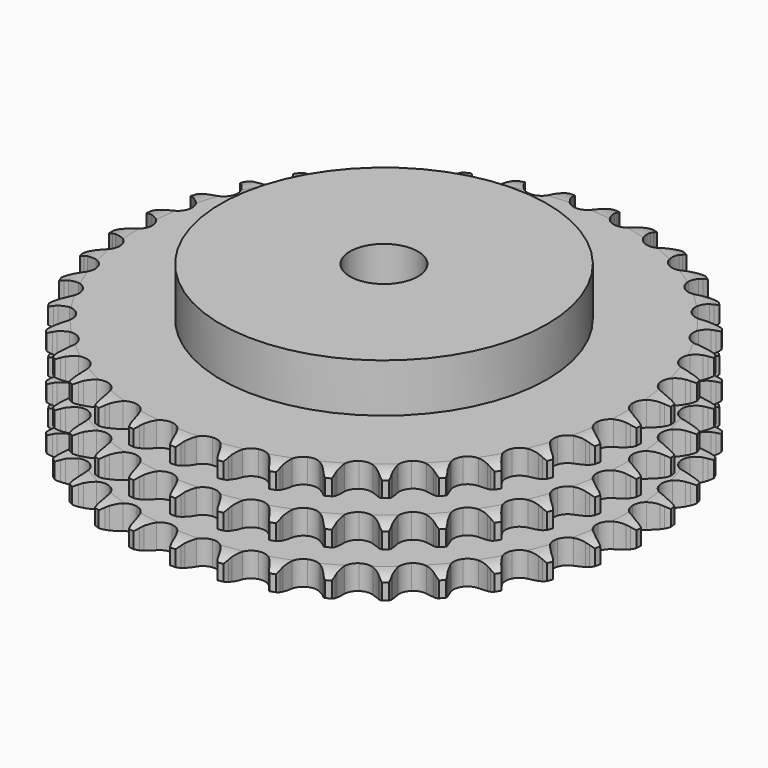
from build123d import *

# Parameters (mm, degrees)
PAD_DEPTH         = 42.1
SKETCH001_R       = 60
PAD001_DEPTH      = 60
SKETCH002_R       = 12.5
POCKET_DEPTH      = 0.001
POCKET_DEPTH_BACK = 60.001


with BuildPart() as part:
    # Sprocket → Pad (new body)
    with BuildSketch(Plane.XY):
        with BuildLine():
            ThreePointArc((-8.361214, 98.237154), (-7.231776, 96.838218), (-6.432471, 95.227702))
            Line((-6.432471, 95.227702), (-5.936919, 93.876112))
            ThreePointArc((-5.936919, 93.876112), (-5.153166, 92.136792), (-4.128134, 90.527815))
            ThreePointArc((-4.128134, 90.527815), (-2.310205, 89.000564), (0, 88.452555))
            ThreePointArc((0, 88.452555), (2.310205, 89.000564), (4.128134, 90.527815))
            ThreePointArc((4.128134, 90.527815), (5.153166, 92.136792), (5.936919, 93.876112))
            Line((5.936919, 93.876112), (6.432471, 95.227702))
            ThreePointArc((6.432471, 95.227702), (7.231776, 96.838218), (8.361214, 98.237154))
            ThreePointArc((8.361214, 98.237154), (9.237985, 96.667465), (9.753614, 94.945031))
            Line((9.753614, 94.945031), (10.013618, 93.529133))
            ThreePointArc((10.013618, 93.529133), (10.492151, 91.682378), (11.23052, 89.923312))
            ThreePointArc((11.23052, 89.923312), (12.764193, 88.110798), (14.948554, 87.180246))
            ThreePointArc((14.948554, 87.180246), (17.318143, 87.329945), (19.36803, 88.527996))
            Line((19.36803, 88.527996), (21.716662, 91.522445))
            ThreePointArc((21.716662, 91.522445), (22.058144, 92.156372), (22.433505, 92.770845))
            ThreePointArc((22.433505, 92.770845), (23.493492, 94.223112), (24.843105, 95.41105))
            ThreePointArc((24.843105, 95.41105), (25.441986, 93.715764), (25.659105, 91.930964))
            Line((25.659105, 91.930964), (25.676082, 90.491492))
            ThreePointArc((25.676082, 90.491492), (25.835628, 88.590428), (26.266093, 86.73188))
            ThreePointArc((26.266093, 86.73188), (27.471389, 84.686245), (29.467066, 83.399919))
            ThreePointArc((29.467066, 83.399919), (31.82787, 83.147003), (34.050742, 83.981389))
            Line((34.050742, 83.981389), (36.871656, 86.535844))
            ThreePointArc((36.871656, 86.535844), (37.31536, 87.102942), (37.789169, 87.64514))
            ThreePointArc((37.789169, 87.64514), (39.079343, 88.897379), (40.610305, 89.840143))
            ThreePointArc((40.610305, 89.840143), (40.914067, 88.068032), (40.826431, 86.272211))
            Line((40.826431, 86.272211), (40.599891, 84.850576))
            ThreePointArc((40.599891, 84.850576), (40.435861, 82.949893), (40.546038, 81.04533))
            ThreePointArc((40.546038, 81.04533), (41.388283, 78.825424), (43.137864, 77.220329))
            ThreePointArc((43.137864, 77.220329), (45.421967, 76.572073), (47.753877, 77.01879))
            Line((47.753877, 77.01879), (50.965919, 79.059765))
            ThreePointArc((50.965919, 79.059765), (51.499081, 79.543719), (52.057707, 79.998044))
            ThreePointArc((52.057707, 79.998044), (53.540952, 81.014231), (55.209221, 81.6847))
            ThreePointArc((55.209221, 81.6847), (55.209125, 79.886742), (54.819254, 78.131564))
            Line((54.819254, 78.131564), (54.355715, 76.768663))
            ThreePointArc((54.355715, 76.768663), (53.872828, 74.923041), (53.659548, 73.027253))
            ThreePointArc((53.659548, 73.027253), (54.114512, 70.696938), (55.567664, 68.819251))
            ThreePointArc((55.567664, 68.819251), (57.709356, 67.794304), (60.083219, 67.8405))
            Line((60.083219, 67.8405), (63.593986, 69.30928))
            ThreePointArc((63.593986, 69.30928), (64.201268, 69.696168), (64.828639, 70.04955))
            ThreePointArc((64.828639, 70.04955), (66.462285, 70.80045), (68.219868, 71.179336))
            ThreePointArc((68.219868, 71.179336), (67.915917, 69.407257), (67.235028, 67.743213))
            Line((67.235028, 67.743213), (66.547825, 66.478255))
            ThreePointArc((66.547825, 66.478255), (65.759972, 64.740789), (65.229369, 62.908315))
            ThreePointArc((65.229369, 62.908315), (65.283964, 60.53463), (66.398884, 58.438368))
            ThreePointArc((66.398884, 58.438368), (68.336552, 57.066216), (70.684077, 56.710563))
            Line((70.684077, 56.710563), (74.392569, 57.564893))
            ThreePointArc((74.392569, 57.564893), (75.056501, 57.843585), (75.73457, 58.085858))
            ThreePointArc((75.73457, 58.085858), (77.47162, 58.549869), (79.267953, 58.626272))
            ThreePointArc((79.267953, 58.626272), (78.668892, 56.931051), (77.716572, 55.406014))
            Line((77.716572, 55.406014), (76.825475, 54.275389))
            ThreePointArc((76.825475, 54.275389), (75.755321, 52.696062), (74.922661, 50.979619))
            ThreePointArc((74.922661, 50.979619), (74.575316, 48.630851), (75.319928, 46.376319))
            ThreePointArc((75.319928, 46.376319), (76.997831, 44.696437), (79.251483, 43.949166))
            Line((79.251483, 43.949166), (83.051014, 44.16447))
            ThreePointArc((83.051014, 44.16447), (83.752495, 44.326948), (84.461754, 44.451141))
            ThreePointArc((84.461754, 44.451141), (86.252237, 44.614915), (88.035644, 44.386638))
            ThreePointArc((88.035644, 44.386638), (87.158706, 42.817042), (85.962351, 41.474885))
            Line((85.962351, 41.474885), (84.892995, 40.511118))
            ThreePointArc((84.892995, 40.511118), (83.571327, 39.135366), (82.460564, 37.584332))
            ThreePointArc((82.460564, 37.584332), (81.721271, 35.328051), (82.074156, 32.980108))
            ThreePointArc((82.074156, 32.980108), (83.444021, 31.040823), (85.538967, 29.923432))
            Line((85.538967, 29.923432), (89.320233, 29.493514))
            ThreePointArc((89.320233, 29.493514), (90.039082, 29.535105), (90.759128, 29.537646))
            ThreePointArc((90.759128, 29.537646), (92.551535, 29.396471), (94.27071, 28.87008))
            ThreePointArc((94.27071, 28.87008), (93.141122, 27.471266), (91.735151, 26.350598))
            Line((91.735151, 26.350598), (90.518299, 25.581417))
            ThreePointArc((90.518299, 25.581417), (88.983139, 24.448817), (87.626227, 23.107813))
            ThreePointArc((87.626227, 23.107813), (86.516255, 21.008927), (86.467259, 18.63512))
            ThreePointArc((86.467259, 18.63512), (87.48968, 16.492221), (89.365652, 15.036855))
            Line((89.365652, 15.036855), (93.019871, 13.974084))
            ThreePointArc((93.019871, 13.974084), (93.735408, 13.89359), (94.445527, 13.774407))
            ThreePointArc((94.445527, 13.774407), (96.188293, 13.332345), (97.793779, 12.522983))
            ThreePointArc((97.793779, 12.522983), (96.444038, 11.33519), (94.868897, 10.468253))
            Line((94.868897, 10.468253), (93.539556, 9.915785))
            ThreePointArc((93.539556, 9.915785), (91.835068, 9.058919), (90.271043, 7.966524))
            ThreePointArc((90.271043, 7.966524), (88.822323, 6.085415), (88.372857, 3.754033))
            ThreePointArc((88.372857, 3.754033), (89.018419, 1.469167), (90.621449, -0.282305))
            Line((90.621449, -0.282305), (94.043496, -1.947354))
            ThreePointArc((94.043496, -1.947354), (94.735138, -2.147617), (95.4149, -2.385097))
            ThreePointArc((95.4149, -2.385097), (97.057889, -3.115329), (98.503499, -4.184377))
            ThreePointArc((98.503499, -4.184377), (96.972435, -5.126978), (95.273438, -5.715244))
            Line((95.273438, -5.715244), (93.869851, -6.035107))
            ThreePointArc((93.869851, -6.035107), (92.045068, -6.591587), (90.318925, -7.403948))
            ThreePointArc((90.318925, -7.403948), (88.573135, -9.013164), (87.736128, -11.235051))
            ThreePointArc((87.736128, -11.235051), (87.986261, -13.596151), (89.270232, -15.593344))
            Line((89.270232, -15.593344), (92.361662, -17.812772))
            ThreePointArc((92.361662, -17.812772), (93.00951, -18.127042), (93.639361, -18.475986))
            ThreePointArc((93.639361, -18.475986), (95.135306, -19.473381), (96.379452, -20.771361))
            ThreePointArc((96.379452, -20.771361), (94.711112, -21.441652), (92.937135, -21.734325))
            Line((92.937135, -21.734325), (91.49968, -21.812379))
            ThreePointArc((91.49968, -21.812379), (89.6071, -22.052465), (87.768497, -22.561421))
            ThreePointArc((87.768497, -22.561421), (85.775859, -23.85245), (84.575391, -25.900922))
            ThreePointArc((84.575391, -25.900922), (84.422898, -28.270333), (85.350873, -30.45579))
            Line((85.350873, -30.45579), (88.02275, -33.165748))
            ThreePointArc((88.02275, -33.165748), (88.608168, -33.584984), (89.169987, -34.035354))
            ThreePointArc((89.169987, -34.035354), (90.475854, -35.271219), (91.482745, -36.76079))
            ThreePointArc((91.482745, -36.76079), (89.725122, -37.139489), (87.9272, -37.128149))
            Line((87.9272, -37.128149), (86.497231, -36.962149))
            ThreePointArc((86.497231, -36.962149), (84.591299, -36.878934), (82.693128, -37.069843))
            ThreePointArc((82.693128, -37.069843), (80.510968, -38.005545), (78.981574, -39.821672))
            ThreePointArc((78.981574, -39.821672), (78.430842, -42.131229), (78.976125, -44.442079))
            Line((78.976125, -44.442079), (81.151584, -47.564606))
            ThreePointArc((81.151584, -47.564606), (81.65773, -48.076748), (82.135355, -48.615588))
            ThreePointArc((82.135355, -48.615588), (83.213576, -50.054368), (83.954245, -51.692679))
            ThreePointArc((83.954245, -51.692679), (82.157903, -51.76889), (80.38776, -51.453863))
            Line((80.38776, -51.453863), (79.006413, -51.048585))
            ThreePointArc((79.006413, -51.048585), (77.14196, -50.644463), (75.238829, -50.511834))
            ThreePointArc((75.238829, -50.511834), (72.929922, -51.065289), (71.115601, -52.596824))
            ThreePointArc((71.115601, -52.596824), (70.182473, -54.780086), (70.329378, -57.14985))
            Line((70.329378, -57.14985), (71.945835, -60.595116))
            ThreePointArc((71.945835, -60.595116), (72.358148, -61.185431), (72.737839, -61.797239))
            ThreePointArc((72.737839, -61.797239), (73.557396, -63.397544), (74.010534, -65.137463))
            ThreePointArc((74.010534, -65.137463), (72.227152, -64.908995), (70.53571, -64.299343))
            Line((70.53571, -64.299343), (69.242725, -63.666446))
            ThreePointArc((69.242725, -63.666446), (67.473388, -62.953043), (65.620045, -62.500691))
            ThreePointArc((65.620045, -62.500691), (63.250816, -62.655978), (61.203761, -63.858861))
            ThreePointArc((61.203761, -63.858861), (59.915083, -65.85302), (59.659382, -68.213524))
            Line((59.659382, -68.213524), (60.670336, -71.882416))
            ThreePointArc((60.670336, -71.882416), (60.976954, -72.533921), (61.247787, -73.201096))
            ThreePointArc((61.247787, -73.201096), (61.785102, -74.916889), (61.937676, -76.708361))
            ThreePointArc((61.937676, -76.708361), (60.218557, -76.181786), (58.654476, -75.295049))
            Line((58.654476, -75.295049), (57.48705, -74.452739))
            ThreePointArc((57.48705, -74.452739), (55.863728, -73.450579), (54.113493, -72.691517))
            ThreePointArc((54.113493, -72.691517), (51.752099, -72.444169), (49.531201, -73.283796))
            ThreePointArc((49.531201, -73.283796), (47.924044, -75.031482), (47.273095, -77.314819))
            Line((47.273095, -77.314819), (47.649461, -81.101789))
            ThreePointArc((47.649461, -81.101789), (47.841564, -81.795742), (47.995748, -82.499092))
            ThreePointArc((47.995748, -82.499092), (48.235364, -84.28101), (48.082983, -86.072499))
            ThreePointArc((48.082983, -86.072499), (46.477583, -85.262966), (45.08586, -84.124652))
            Line((45.08586, -84.124652), (44.077577, -83.097163))
            ThreePointArc((44.077577, -83.097163), (42.646972, -81.835075), (41.050193, -80.79114))
            ThreePointArc((41.050193, -80.79114), (38.764568, -80.148273), (36.433718, -80.600488))
            ThreePointArc((36.433718, -80.600488), (34.554318, -82.051426), (33.526846, -84.191907))
            Line((33.526846, -84.191907), (33.257798, -87.988012))
            ThreePointArc((33.257798, -87.988012), (33.329859, -88.704448), (33.362959, -89.423738))
            ThreePointArc((33.362959, -89.423738), (33.297983, -91.220521), (32.84503, -92.960488))
            ThreePointArc((32.84503, -92.960488), (31.399534, -91.891285), (30.220206, -90.534143))
            Line((30.220206, -90.534143), (29.400073, -89.351033))
            ThreePointArc((29.400073, -89.351033), (28.203339, -87.865325), (26.805955, -86.56655))
            ThreePointArc((26.805955, -86.56655), (24.661851, -85.546657), (22.288103, -85.598452))
            ThreePointArc((22.288103, -85.598452), (20.190528, -86.710899), (18.816092, -88.646948))
            Line((18.816092, -88.646948), (17.909369, -92.34298))
            ThreePointArc((17.909369, -92.34298), (17.859315, -93.061289), (17.770378, -93.775826))
            ThreePointArc((17.770378, -93.775826), (17.402679, -95.535783), (16.662185, -97.174173))
            ThreePointArc((16.662185, -97.174173), (15.418178, -95.87606), (14.485171, -94.339132))
            Line((14.485171, -94.339132), (13.876782, -93.034436))
            ThreePointArc((13.876782, -93.034436), (12.948348, -91.36785), (11.790557, -89.851597))
            ThreePointArc((11.790557, -89.851597), (9.849658, -88.484019), (7.501301, -88.133904))
            ThreePointArc((7.501301, -88.133904), (5.245892, -88.875857), (3.564033, -90.551777))
            Line((3.564033, -90.551777), (2.045719, -94.041408))
            ThreePointArc((2.045719, -94.041408), (1.874991, -94.740926), (1.666576, -95.430155))
            ThreePointArc((1.666576, -95.430155), (1.006731, -97.102655), (0, -98.592334))
            ThreePointArc((0, -98.592334), (-1.006731, -97.102655), (-1.666576, -95.430155))
            Line((-1.666576, -95.430155), (-2.045719, -94.041408))
            ThreePointArc((-2.045719, -94.041408), (-2.679144, -92.241888), (-3.564033, -90.551777))
            ThreePointArc((-3.564033, -90.551777), (-5.245892, -88.875857), (-7.501301, -88.133904))
            ThreePointArc((-7.501301, -88.133904), (-9.849658, -88.484019), (-11.790557, -89.851597))
            Line((-11.790557, -89.851597), (-13.876782, -93.034436))
            ThreePointArc((-13.876782, -93.034436), (-14.163273, -93.695039), (-14.485171, -94.339132))
            ThreePointArc((-14.485171, -94.339132), (-15.418178, -95.87606), (-16.662185, -97.174173))
            ThreePointArc((-16.662185, -97.174173), (-17.402679, -95.535783), (-17.770378, -93.775826))
            Line((-17.770378, -93.775826), (-17.909369, -92.34298))
            ThreePointArc((-17.909369, -92.34298), (-18.229562, -90.462294), (-18.816092, -88.646948))
            ThreePointArc((-18.816092, -88.646948), (-20.190528, -86.710899), (-22.288103, -85.598452))
            ThreePointArc((-22.288103, -85.598452), (-24.661851, -85.546657), (-26.805955, -86.56655))
            Line((-26.805955, -86.56655), (-29.400073, -89.351033))
            ThreePointArc((-29.400073, -89.351033), (-29.794086, -89.953716), (-30.220206, -90.534143))
            ThreePointArc((-30.220206, -90.534143), (-31.399534, -91.891285), (-32.84503, -92.960488))
            ThreePointArc((-32.84503, -92.960488), (-33.297983, -91.220521), (-33.362959, -89.423738))
            Line((-33.362959, -89.423738), (-33.257798, -87.988012))
            ThreePointArc((-33.257798, -87.988012), (-33.255548, -86.080266), (-33.526846, -84.191907))
            ThreePointArc((-33.526846, -84.191907), (-34.554318, -82.051426), (-36.433718, -80.600488))
            ThreePointArc((-36.433718, -80.600488), (-38.764568, -80.148273), (-41.050193, -80.79114))
            Line((-41.050193, -80.79114), (-44.077577, -83.097163))
            ThreePointArc((-44.077577, -83.097163), (-44.567777, -83.624589), (-45.08586, -84.124652))
            ThreePointArc((-45.08586, -84.124652), (-46.477583, -85.262966), (-48.082983, -86.072499))
            ThreePointArc((-48.082983, -86.072499), (-48.235364, -84.28101), (-47.995748, -82.499092))
            Line((-47.995748, -82.499092), (-47.649461, -81.101789))
            ThreePointArc((-47.649461, -81.101789), (-47.324833, -79.221865), (-47.273095, -77.314819))
            ThreePointArc((-47.273095, -77.314819), (-47.924044, -75.031482), (-49.531201, -73.283796))
            ThreePointArc((-49.531201, -73.283796), (-51.752099, -72.444169), (-54.113493, -72.691517))
            Line((-54.113493, -72.691517), (-57.48705, -74.452739))
            ThreePointArc((-57.48705, -74.452739), (-58.059334, -74.889735), (-58.654476, -75.295049))
            ThreePointArc((-58.654476, -75.295049), (-60.218557, -76.181786), (-61.937676, -76.708361))
            ThreePointArc((-61.937676, -76.708361), (-61.785102, -74.916889), (-61.247787, -73.201096))
            Line((-61.247787, -73.201096), (-60.670336, -71.882416))
            ThreePointArc((-60.670336, -71.882416), (-60.032668, -70.084395), (-59.659382, -68.213524))
            ThreePointArc((-59.659382, -68.213524), (-59.915083, -65.85302), (-61.203761, -63.858861))
            ThreePointArc((-61.203761, -63.858861), (-63.250816, -62.655978), (-65.620045, -62.500691))
            Line((-65.620045, -62.500691), (-69.242725, -63.666446))
            ThreePointArc((-69.242725, -63.666446), (-69.88063, -64.000439), (-70.53571, -64.299343))
            ThreePointArc((-70.53571, -64.299343), (-72.227152, -64.908995), (-74.010534, -65.137463))
            ThreePointArc((-74.010534, -65.137463), (-73.557396, -63.397544), (-72.737839, -61.797239))
            Line((-72.737839, -61.797239), (-71.945835, -60.595116))
            ThreePointArc((-71.945835, -60.595116), (-71.013473, -58.930724), (-70.329378, -57.14985))
            ThreePointArc((-70.329378, -57.14985), (-70.182473, -54.780086), (-71.115601, -52.596824))
            ThreePointArc((-71.115601, -52.596824), (-72.929922, -51.065289), (-75.238829, -50.511834))
            Line((-75.238829, -50.511834), (-79.006413, -51.048585))
            ThreePointArc((-79.006413, -51.048585), (-79.691587, -51.269967), (-80.38776, -51.453863))
            ThreePointArc((-80.38776, -51.453863), (-82.157903, -51.76889), (-83.954245, -51.692679))
            ThreePointArc((-83.954245, -51.692679), (-83.213576, -50.054368), (-82.135355, -48.615588))
            Line((-82.135355, -48.615588), (-81.151584, -47.564606))
            ThreePointArc((-81.151584, -47.564606), (-79.95135, -46.081724), (-78.976125, -44.442079))
            ThreePointArc((-78.976125, -44.442079), (-78.430842, -42.131229), (-78.981574, -39.821672))
            ThreePointArc((-78.981574, -39.821672), (-80.510968, -38.005545), (-82.693128, -37.069843))
            Line((-82.693128, -37.069843), (-86.497231, -36.962149))
            ThreePointArc((-86.497231, -36.962149), (-87.209963, -37.064552), (-87.9272, -37.128149))
            ThreePointArc((-87.9272, -37.128149), (-89.725122, -37.139489), (-91.482745, -36.76079))
            ThreePointArc((-91.482745, -36.76079), (-90.475854, -35.271219), (-89.169987, -34.035354))
            Line((-89.169987, -34.035354), (-88.02275, -33.165748))
            ThreePointArc((-88.02275, -33.165748), (-86.589172, -31.907037), (-85.350873, -30.45579))
            ThreePointArc((-85.350873, -30.45579), (-84.422898, -28.270333), (-84.575391, -25.900922))
            ThreePointArc((-84.575391, -25.900922), (-85.775859, -23.85245), (-87.768497, -22.561421))
            Line((-87.768497, -22.561421), (-91.49968, -21.812379))
            ThreePointArc((-91.49968, -21.812379), (-92.219467, -21.792856), (-92.937135, -21.734325))
            ThreePointArc((-92.937135, -21.734325), (-94.711112, -21.441652), (-96.379452, -20.771361))
            ThreePointArc((-96.379452, -20.771361), (-95.135306, -19.473381), (-93.639361, -18.475986))
            Line((-93.639361, -18.475986), (-92.361662, -17.812772))
            ThreePointArc((-92.361662, -17.812772), (-90.735981, -16.814442), (-89.270232, -15.593344))
            ThreePointArc((-89.270232, -15.593344), (-87.986261, -13.596151), (-87.736128, -11.235051))
            ThreePointArc((-87.736128, -11.235051), (-88.573135, -9.013164), (-90.318925, -7.403948))
            Line((-90.318925, -7.403948), (-93.869851, -6.035107))
            ThreePointArc((-93.869851, -6.035107), (-94.575984, -5.894221), (-95.273438, -5.715244))
            ThreePointArc((-95.273438, -5.715244), (-96.972435, -5.126978), (-98.503499, -4.184377))
            ThreePointArc((-98.503499, -4.184377), (-97.057889, -3.115329), (-95.4149, -2.385097))
            Line((-95.4149, -2.385097), (-94.043496, -1.947354))
            ThreePointArc((-94.043496, -1.947354), (-92.272481, -1.238127), (-90.621449, -0.282305))
            ThreePointArc((-90.621449, -0.282305), (-89.018419, 1.469167), (-88.372857, 3.754033))
            ThreePointArc((-88.372857, 3.754033), (-88.822323, 6.085415), (-90.271043, 7.966524))
            Line((-90.271043, 7.966524), (-93.539556, 9.915785))
            ThreePointArc((-93.539556, 9.915785), (-94.211723, 10.173981), (-94.868897, 10.468253))
            ThreePointArc((-94.868897, 10.468253), (-96.444038, 11.33519), (-97.793779, 12.522983))
            ThreePointArc((-97.793779, 12.522983), (-96.188293, 13.332345), (-94.445527, 13.774407))
            Line((-94.445527, 13.774407), (-93.019871, 13.974084))
            ThreePointArc((-93.019871, 13.974084), (-91.154469, 14.373808), (-89.365652, 15.036855))
            ThreePointArc((-89.365652, 15.036855), (-87.48968, 16.492221), (-86.467259, 18.63512))
            ThreePointArc((-86.467259, 18.63512), (-86.516255, 21.008927), (-87.626227, 23.107813))
            Line((-87.626227, 23.107813), (-90.518299, 25.581417))
            ThreePointArc((-90.518299, 25.581417), (-91.137162, 25.949496), (-91.735151, 26.350598))
            ThreePointArc((-91.735151, 26.350598), (-93.141122, 27.471266), (-94.27071, 28.87008))
            ThreePointArc((-94.27071, 28.87008), (-92.551535, 29.396471), (-90.759128, 29.537646))
            Line((-90.759128, 29.537646), (-89.320233, 29.493514))
            ThreePointArc((-89.320233, 29.493514), (-87.41411, 29.572234), (-85.538967, 29.923432))
            ThreePointArc((-85.538967, 29.923432), (-83.444021, 31.040823), (-82.074156, 32.980108))
            ThreePointArc((-82.074156, 32.980108), (-81.721271, 35.328051), (-82.460564, 37.584332))
            Line((-82.460564, 37.584332), (-84.892995, 40.511118))
            ThreePointArc((-84.892995, 40.511118), (-85.440751, 40.978492), (-85.962351, 41.474885))
            ThreePointArc((-85.962351, 41.474885), (-87.158706, 42.817042), (-88.035644, 44.386638))
            ThreePointArc((-88.035644, 44.386638), (-86.252237, 44.614915), (-84.461754, 44.451141))
            Line((-84.461754, 44.451141), (-83.051014, 44.16447))
            ThreePointArc((-83.051014, 44.16447), (-81.159006, 43.91992), (-79.251483, 43.949166))
            ThreePointArc((-79.251483, 43.949166), (-76.997831, 44.696437), (-75.319928, 46.376319))
            ThreePointArc((-75.319928, 46.376319), (-74.575316, 48.630851), (-74.922661, 50.979619))
            Line((-74.922661, 50.979619), (-76.825475, 54.275389))
            ThreePointArc((-76.825475, 54.275389), (-77.286364, 54.82861), (-77.716572, 55.406014))
            ThreePointArc((-77.716572, 55.406014), (-78.668892, 56.931051), (-79.267953, 58.626272))
            ThreePointArc((-79.267953, 58.626272), (-77.47162, 58.549869), (-75.73457, 58.085858))
            Line((-75.73457, 58.085858), (-74.392569, 57.564893))
            ThreePointArc((-74.392569, 57.564893), (-72.569105, 57.004111), (-70.684077, 56.710563))
            ThreePointArc((-70.684077, 56.710563), (-68.336552, 57.066216), (-66.398884, 58.438368))
            ThreePointArc((-66.398884, 58.438368), (-65.283964, 60.53463), (-65.229369, 62.908315))
            Line((-65.229369, 62.908315), (-66.547825, 66.478255))
            ThreePointArc((-66.547825, 66.478255), (-66.90859, 67.10141), (-67.235028, 67.743213))
            ThreePointArc((-67.235028, 67.743213), (-67.915917, 69.407257), (-68.219868, 71.179336))
            ThreePointArc((-68.219868, 71.179336), (-66.462285, 70.80045), (-64.828639, 70.04955))
            Line((-64.828639, 70.04955), (-63.593986, 69.30928))
            ThreePointArc((-63.593986, 69.30928), (-61.891523, 68.448397), (-60.083219, 67.8405))
            ThreePointArc((-60.083219, 67.8405), (-57.709356, 67.794304), (-55.567664, 68.819251))
            ThreePointArc((-55.567664, 68.819251), (-54.114512, 70.696938), (-53.659548, 73.027253))
            Line((-53.659548, 73.027253), (-54.355715, 76.768663))
            ThreePointArc((-54.355715, 76.768663), (-54.605978, 77.443824), (-54.819254, 78.131564))
            ThreePointArc((-54.819254, 78.131564), (-55.209125, 79.886742), (-55.209221, 81.6847))
            ThreePointArc((-55.209221, 81.6847), (-53.540952, 81.014231), (-52.057707, 79.998044))
            Line((-52.057707, 79.998044), (-50.965919, 79.059765))
            ThreePointArc((-50.965919, 79.059765), (-49.433435, 77.923547), (-47.753877, 77.01879))
            ThreePointArc((-47.753877, 77.01879), (-45.421967, 76.572073), (-43.137864, 77.220329))
            ThreePointArc((-43.137864, 77.220329), (-41.388283, 78.825424), (-40.546038, 81.04533))
            Line((-40.546038, 81.04533), (-40.599891, 84.850576))
            ThreePointArc((-40.599891, 84.850576), (-40.732451, 85.55832), (-40.826431, 86.272211))
            ThreePointArc((-40.826431, 86.272211), (-40.914067, 88.068032), (-40.610305, 89.840143))
            ThreePointArc((-40.610305, 89.840143), (-39.079343, 88.897379), (-37.789169, 87.64514))
            Line((-37.789169, 87.64514), (-36.871656, 86.535844))
            ThreePointArc((-36.871656, 86.535844), (-35.553236, 85.156979), (-34.050742, 83.981389))
            ThreePointArc((-34.050742, 83.981389), (-31.82787, 83.147003), (-29.467066, 83.399919))
            ThreePointArc((-29.467066, 83.399919), (-27.471389, 84.686245), (-26.266093, 86.73188))
            Line((-26.266093, 86.73188), (-25.676082, 90.491492))
            ThreePointArc((-25.676082, 90.491492), (-25.687125, 91.211459), (-25.659105, 91.930964))
            ThreePointArc((-25.659105, 91.930964), (-25.441986, 93.715764), (-24.843105, 95.41105))
            ThreePointArc((-24.843105, 95.41105), (-23.493492, 94.223112), (-22.433505, 92.770845))
            Line((-22.433505, 92.770845), (-21.716662, 91.522445))
            ThreePointArc((-21.716662, 91.522445), (-20.650236, 89.940599), (-19.36803, 88.527996))
            ThreePointArc((-19.36803, 88.527996), (-17.318143, 87.329945), (-14.948554, 87.180246))
            ThreePointArc((-14.948554, 87.180246), (-12.764193, 88.110798), (-11.23052, 89.923312))
            Line((-11.23052, 89.923312), (-10.013618, 93.529133))
            ThreePointArc((-10.013618, 93.529133), (-9.902828, 94.24061), (-9.753614, 94.945031))
            ThreePointArc((-9.753614, 94.945031), (-9.237985, 96.667465), (-8.361214, 98.237154))
        make_face()
    extrude(amount=PAD_DEPTH)

    # Sketch → Groove (revolve, cut)
    with BuildSketch(Plane.XZ):
        with BuildLine():
            ThreePointArc((90.125762, 0), (93.70347, 0.405129), (97.1, 1.6))
            Line((97.1, 1.6), (97.1, 7.4))
            ThreePointArc((97.1, 7.4), (93.70347, 8.594871), (90.125762, 9))
            Line((60, 9), (90.125762, 9))
            Line((60, 9), (60, 16.55))
            Line((60, 16.55), (90.125762, 16.55))
            ThreePointArc((90.125762, 16.55), (93.70347, 16.955129), (97.1, 18.15))
            Line((97.1, 23.95), (97.1, 18.15))
            ThreePointArc((97.1, 23.95), (93.70347, 25.144871), (90.125762, 25.55))
            Line((60, 25.55), (90.125762, 25.55))
            Line((60, 33.1), (60, 25.55))
            Line((90.125762, 33.1), (60, 33.1))
            ThreePointArc((90.125762, 33.1), (93.70347, 33.505129), (97.1, 34.7))
            Line((97.1, 34.7), (97.1, 40.5))
            ThreePointArc((97.1, 40.5), (93.70347, 41.694871), (90.125762, 42.1))
            Line((90.125762, 42.1), (107.1, 42.1))
            Line((107.1, 42.1), (107.1, 0))
            Line((90.125762, 0), (107.1, 0))
        make_face()
    revolve(axis=Axis((0, 0, 0), (0, 0, 1)), mode=Mode.SUBTRACT)

    # Sketch001 → Pad001 (join)
    with BuildSketch(Plane.XY):
        Circle(SKETCH001_R)
    extrude(amount=PAD001_DEPTH)

    # Sketch002 → Pocket (cut, two sides)
    with BuildSketch(Plane.XY) as pocket_sk:
        Circle(SKETCH002_R)
    extrude(amount=-POCKET_DEPTH, mode=Mode.SUBTRACT)
    extrude(pocket_sk.sketch, amount=POCKET_DEPTH_BACK, mode=Mode.SUBTRACT)


solid = part.part
